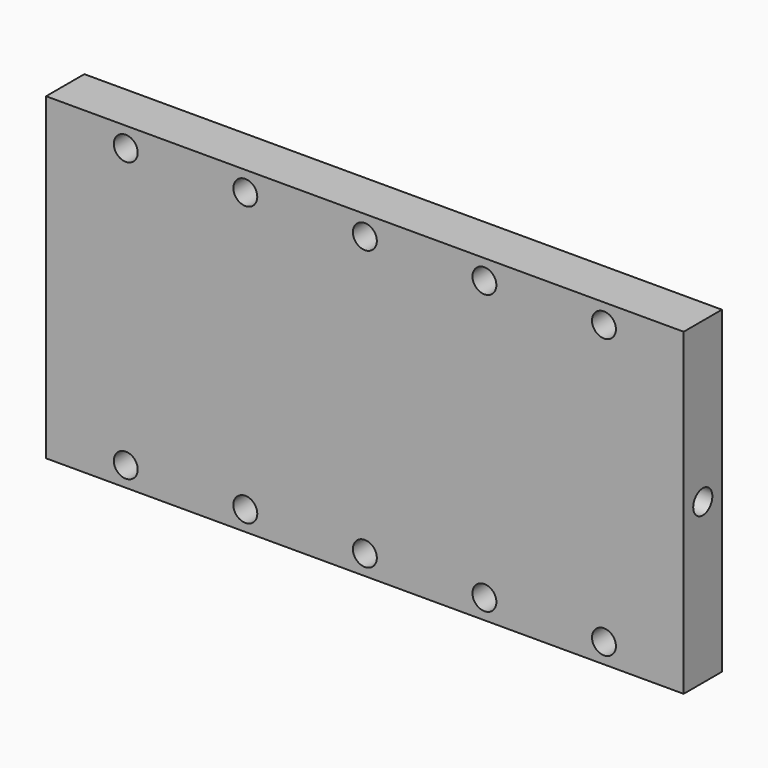
from build123d import *

# Parameters (mm, degrees)
F0_W     = 101.6
F0_H     = 50.8
F0_R     = 1.905
F1_DEPTH = 3.81
F3_R     = 1.905
F4_DEPTH = 12.7
F6_R     = 1.905
F7_DEPTH = 12.7


with BuildPart() as f1:
    # F0 (on Front) → F1 (new body, symmetric)
    with BuildSketch(Plane.XZ):
        Rectangle(F0_W, F0_H)
        with Locations((-38.1, -22.225)):
            Circle(F0_R, mode=Mode.SUBTRACT)
        with Locations((-19.05, -22.225)):
            Circle(F0_R, mode=Mode.SUBTRACT)
        with Locations((0, -22.225)):
            Circle(F0_R, mode=Mode.SUBTRACT)
        with Locations((19.05, -22.225)):
            Circle(F0_R, mode=Mode.SUBTRACT)
        with Locations((38.1, -22.225)):
            Circle(F0_R, mode=Mode.SUBTRACT)
        with Locations((-38.1, 22.225)):
            Circle(F0_R, mode=Mode.SUBTRACT)
        with Locations((-19.05, 22.225)):
            Circle(F0_R, mode=Mode.SUBTRACT)
        with Locations((0, 22.225)):
            Circle(F0_R, mode=Mode.SUBTRACT)
        with Locations((19.05, 22.225)):
            Circle(F0_R, mode=Mode.SUBTRACT)
        with Locations((38.1, 22.225)):
            Circle(F0_R, mode=Mode.SUBTRACT)
    extrude(amount=F1_DEPTH, both=True)

    # F3 (on offset) → F4 (cut)
    with BuildSketch(Plane.YZ.offset(50.8)):
        Circle(F3_R)
    extrude(amount=-F4_DEPTH, mode=Mode.SUBTRACT)

    # F6 (on offset) → F7 (cut)
    with BuildSketch(Plane(origin=(-50.8, 0, 0), x_dir=(0, -1, 0), z_dir=(-1, 0, 0))):
        Circle(F6_R)
    extrude(amount=-F7_DEPTH, mode=Mode.SUBTRACT)


solid = f1.part
